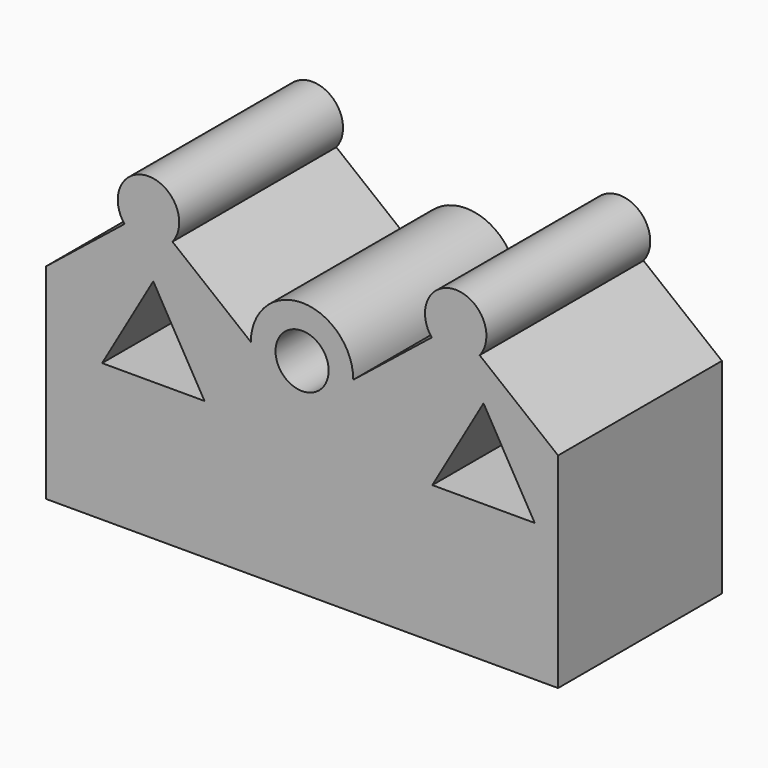
from build123d import *

# Parameters (mm, degrees)
F0_R     = 32.958113
F1_DEPTH = 254
F3_DEPTH = 254.001


with BuildPart() as f1:
    # F0 (on Front) → F1 (new body)
    with BuildSketch(Plane.XZ):
        with BuildLine():
            Line((-254, 0), (0, 0))
            Line((0, 0), (0, 254))
            Line((0, 254), (-97.248898, 331.799119))
            ThreePointArc((-97.248898, 331.799119), (-127, 393.7), (-156.751102, 331.799119))
            Line((-156.751102, 331.799119), (-254, 254))
            Line((-254, 254), (-254, 0))
        make_face()
        with BuildLine():
            Line((127, 254), (127, 0))
            Line((127, 0), (381, 0))
            Line((381, 0), (381, 254))
            Line((381, 254), (283.751102, 331.799119))
            ThreePointArc((283.751102, 331.799119), (254, 393.7), (224.248898, 331.799119))
            Line((224.248898, 331.799119), (127, 254))
        make_face()
        with BuildLine():
            Line((0, 254), (0, 0))
            Line((0, 0), (127, 0))
            Line((127, 0), (127, 254))
            ThreePointArc((127, 254), (63.5, 317.5), (0, 254))
        make_face()
        with Locations((63.5, 254)):
            Circle(F0_R, mode=Mode.SUBTRACT)
    extrude(amount=F1_DEPTH)

    # F2 (on Front) → F3 (cut, through all)
    with BuildSketch(Plane.XZ):
        Polygon((288.512302, 280.890027), (225.012302, 170.9048), (352.012302, 170.9048), align=None)
        Polygon((-57.548035, 170.9048), (-121.048035, 280.890027), (-184.548035, 170.9048), align=None)
    extrude(amount=F3_DEPTH, mode=Mode.SUBTRACT)


solid = f1.part
